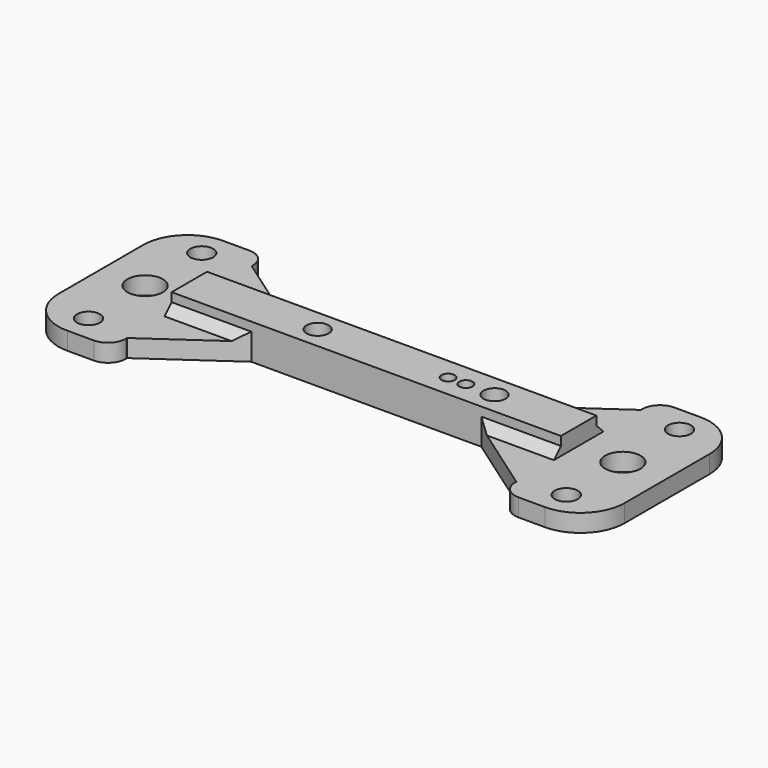
from build123d import *

# Parameters (mm, degrees)
SKETCH_R        = 4
SKETCH_R_2      = 2.5
SKETCH_R_3      = 1.5
SKETCH_R_4      = 2.6
PAD_DEPTH       = 4
SKETCH006_W     = 88
SKETCH006_H     = 10
PAD001_DEPTH    = 4
SKETCH007_R     = 2.5
SKETCH007_R_2   = 1.5
POCKET_DEPTH    = 8.001
FILLET_R        = 10
FILLET001_R     = 10
FILLET002_R     = 4
FILLET003_R     = 4
CHAMFER_SIZE    = 2
CHAMFER001_SIZE = 2
CHAMFER002_SIZE = 2


with BuildPart() as part:
    # Sketch → Pad (new body)
    with BuildSketch(Plane.XY):
        Polygon((80, 5), (98, 17.603736), (98, 22), (118, 22), (118, -22), (98, -22), (98, -17.603736), (80, -5), (28, -5), (10, -17.603736), (10, -22), (-10, -22), (-10, 22), (10, 22), (10, 17.603736), (28, 5), align=None)
        with Locations((108, 0)):
            Circle(SKETCH_R, mode=Mode.SUBTRACT)
        with Locations((39, 0)):
            Circle(SKETCH_R_2, mode=Mode.SUBTRACT)
        with Locations((79, 0)):
            Circle(SKETCH_R_2, mode=Mode.SUBTRACT)
        with Locations((72.5, 0)):
            Circle(SKETCH_R_3, mode=Mode.SUBTRACT)
        with Locations((68.5, 0)):
            Circle(SKETCH_R_3, mode=Mode.SUBTRACT)
        with Locations((108, 16)):
            Circle(SKETCH_R_4, mode=Mode.SUBTRACT)
        with Locations((108, -16)):
            Circle(SKETCH_R_4, mode=Mode.SUBTRACT)
        with Locations((0, 16)):
            Circle(SKETCH_R_4, mode=Mode.SUBTRACT)
        Circle(SKETCH_R, mode=Mode.SUBTRACT)
        with Locations((0, -16)):
            Circle(SKETCH_R_4, mode=Mode.SUBTRACT)
    extrude(amount=PAD_DEPTH)

    # Sketch006 (on Face28 of Pad) → Pad001 (join)
    with BuildSketch(Plane.XY.offset(4)):
        with Locations((54, 0)):
            Rectangle(SKETCH006_W, SKETCH006_H)
    extrude(amount=PAD001_DEPTH)

    # Sketch007 → Pocket (cut, through all)
    with BuildSketch(Plane.XY):
        with Locations((39, 0)):
            Circle(SKETCH007_R)
        with Locations((79, 0)):
            Circle(SKETCH007_R)
        with Locations((72.5, 0)):
            Circle(SKETCH007_R_2)
        with Locations((68.5, 0)):
            Circle(SKETCH007_R_2)
    extrude(amount=POCKET_DEPTH, mode=Mode.SUBTRACT)

    # Fillet
    fillet_edges = [part.edges().sort_by_distance(p)[0] for p in [
        (-10, -22, 2),
        (-10, 22, 2),
    ]]
    fillet(fillet_edges, radius=FILLET_R)

    # Fillet001
    fillet001_edges = [part.edges().sort_by_distance(p)[0] for p in [
        (118, 22, 2),
        (118, -22, 2),
    ]]
    fillet(fillet001_edges, radius=FILLET001_R)

    # Fillet002
    fillet002_edges = [part.edges().sort_by_distance(p)[0] for p in [
        (10, 22, 2),
        (98, 22, 2),
    ]]
    fillet(fillet002_edges, radius=FILLET002_R)

    # Fillet003
    fillet003_edges = [part.edges().sort_by_distance(p)[0] for p in [
        (10, -22, 2),
        (98, -22, 2),
    ]]
    fillet(fillet003_edges, radius=FILLET003_R)

    # Chamfer
    chamfer_edges = [part.edges().sort_by_distance(p)[0] for p in [
        (89, -5, 4),
    ]]
    chamfer(chamfer_edges, length=CHAMFER_SIZE)

    # Chamfer001
    chamfer001_edges = [part.edges().sort_by_distance(p)[0] for p in [
        (19, -5, 4),
    ]]
    chamfer(chamfer001_edges, length=CHAMFER001_SIZE)

    # Chamfer002
    chamfer002_edges = [part.edges().sort_by_distance(p)[0] for p in [
        (19, 5, 4),
        (89, 5, 4),
    ]]
    chamfer(chamfer002_edges, length=CHAMFER002_SIZE)


solid = part.part
